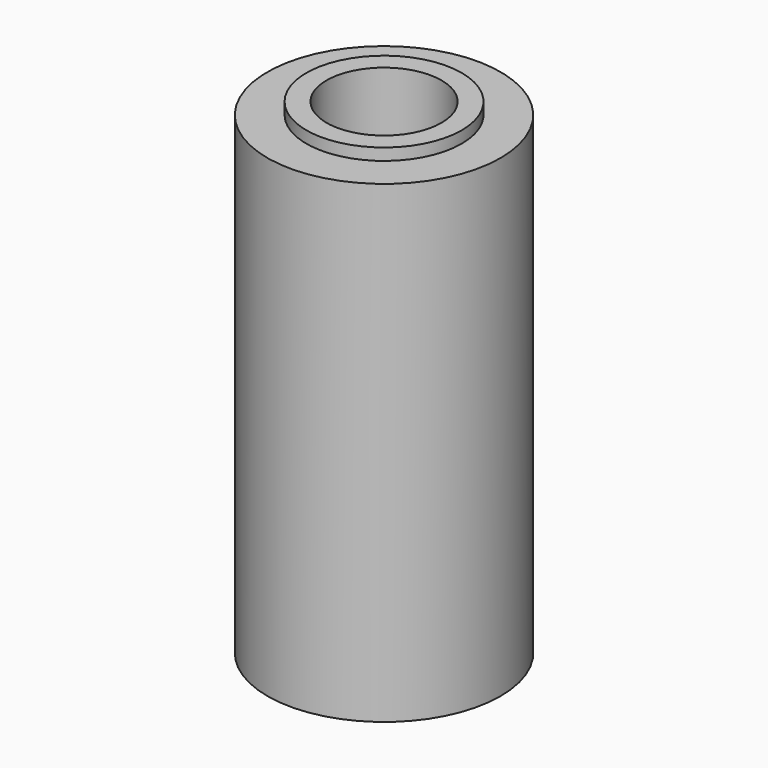
from build123d import *

# Parameters (mm, degrees)
F0_R     = 4.7625
F0_R_2   = 2.3495
F1_DEPTH = 9.92099
F2_R     = 4.7625
F2_R_2   = 3.175
F3_DEPTH = 0.4826


with BuildPart() as f1:
    # F0 (on Top) → F1 (new body, symmetric)
    with BuildSketch(Plane.XY):
        Circle(F0_R)
        Circle(F0_R_2, mode=Mode.SUBTRACT)
    extrude(amount=F1_DEPTH, both=True)

    # F2 (on face) → F3 (cut)
    with BuildSketch(Plane.XY.offset(9.92099)):
        Circle(F2_R)
        Circle(F2_R_2, mode=Mode.SUBTRACT)
    extrude(amount=-F3_DEPTH, mode=Mode.SUBTRACT)


solid = f1.part
